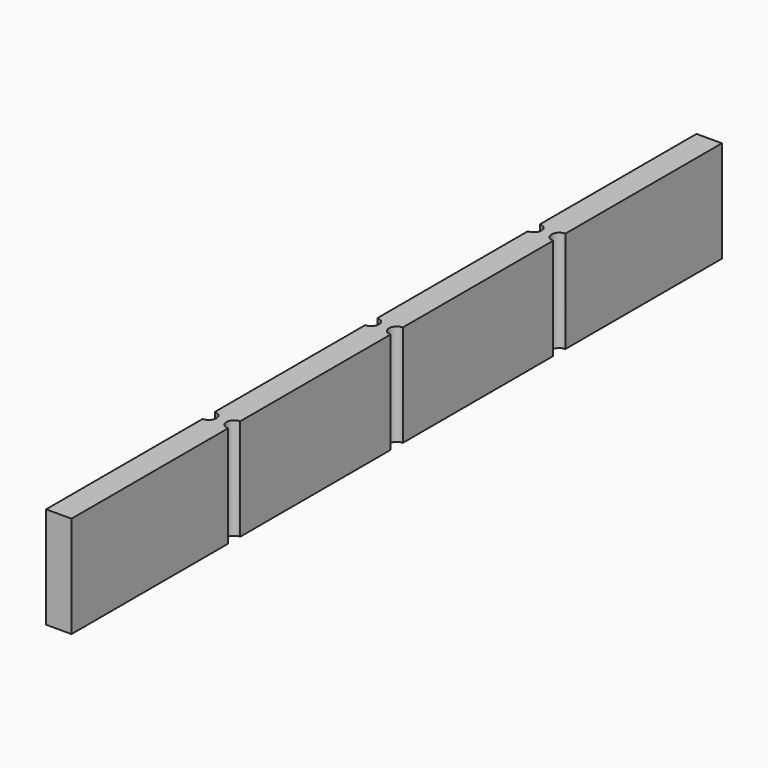
from build123d import *

# Parameters (mm, degrees)
F1_DEPTH = 20


with BuildPart() as f1:
    # F0 (on Top) → F1 (new body)
    with BuildSketch(Plane.XY):
        with BuildLine():
            Line((-5, 75), (-10, 75))
            Line((-10, 75), (-10, 36.5))
            ThreePointArc((-10, 36.5), (-8.5, 35), (-10, 33.5))
            Line((-10, 33.5), (-10, -3.5))
            ThreePointArc((-10, -3.5), (-8.5, -5), (-10, -6.5))
            Line((-10, -6.5), (-10, -43.5))
            ThreePointArc((-10, -43.5), (-8.5, -45), (-10, -46.5))
            Line((-10, -46.5), (-10, -85))
            Line((-10, -85), (-5, -85))
            Line((-5, -85), (-5, -46.5))
            ThreePointArc((-5, -46.5), (-6.5, -45), (-5, -43.5))
            Line((-5, -43.5), (-5, -6.5))
            ThreePointArc((-5, -6.5), (-6.5, -5), (-5, -3.5))
            Line((-5, -3.5), (-5, 33.5))
            ThreePointArc((-5, 33.5), (-6.5, 35), (-5, 36.5))
            Line((-5, 36.5), (-5, 75))
        make_face()
    extrude(amount=-F1_DEPTH)


solid = f1.part
